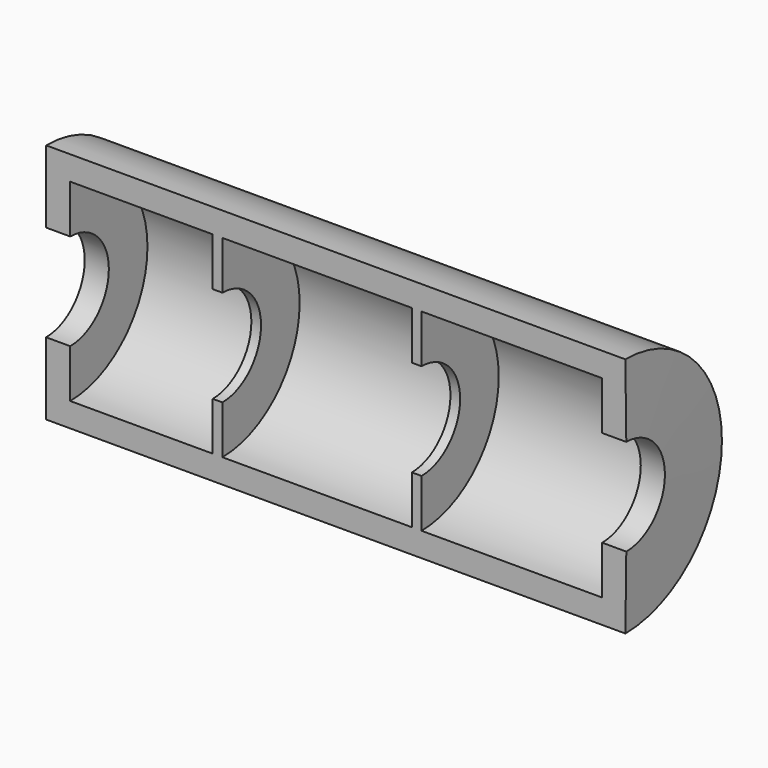
from build123d import *

# Parameters (mm, degrees)
F1_ANGLE = 180


with BuildPart() as f1:
    # F0 (on Front) → F1 (revolve)
    with BuildSketch(Plane.XZ):
        Polygon((152.651871, 63.5), (-152.148129, 63.5), (-152.148129, 25.4), (-139.448129, 25.4), (-139.448129, 50.8), (-64.457401, 50.8), (-64.457401, 25.4), (-59.377401, 25.4), (-59.377401, 50.8), (40.299118, 50.8), (40.299118, 25.4), (45.379118, 25.4), (45.379118, 50.8), (140.436626, 50.8), (140.436626, 25.4), (153.136626, 25.4), align=None)
    revolve(axis=Axis((20.847701, 0, 0), (-1, 0, 0)), revolution_arc=F1_ANGLE)


solid = f1.part
